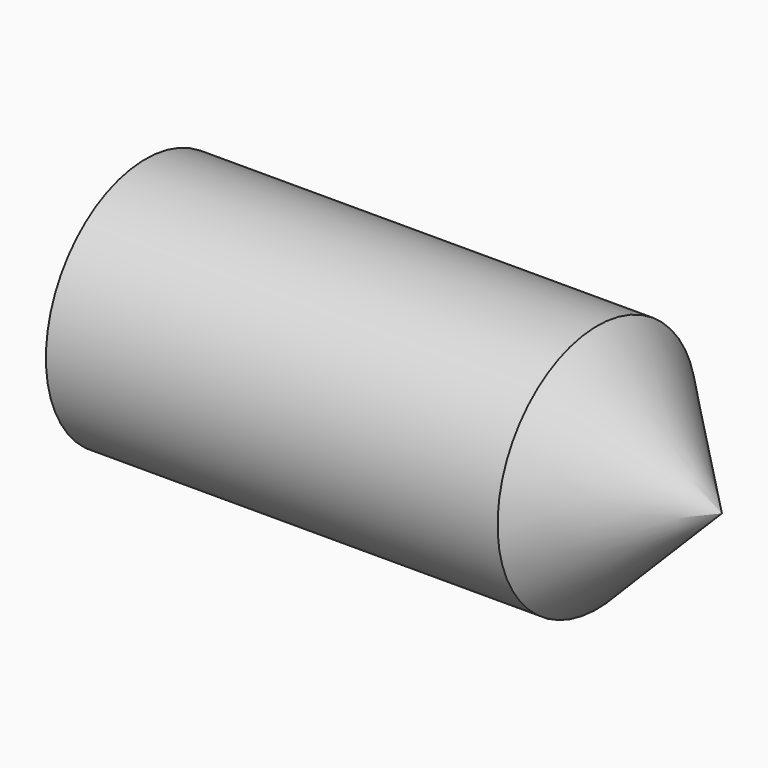
from build123d import *

# Parameters (mm, degrees)
F0_R      = 50.811905
F1_DEPTH  = 82.55
F2_SIZE   = 50.8
F1_FACE_R = 50.811905
F3_DEPTH  = 152.4


with BuildPart() as f1:
    # F0 (on Right) → F1 (new body)
    with BuildSketch(Plane.YZ):
        Circle(F0_R)
    extrude(amount=F1_DEPTH)

    # F2
    f2_edges = [f1.edges().sort_by_distance(p)[0] for p in [
        (82.55, -50.811905, 0),
    ]]
    chamfer(f2_edges, length=F2_SIZE)

    # F1_face (on face) → F3 (join)
    with BuildSketch(Plane(origin=(0, 0, 0), x_dir=(0, 1, 0), z_dir=(-1, 0, 0))):
        Circle(F1_FACE_R)
    extrude(amount=F3_DEPTH)


solid = f1.part
